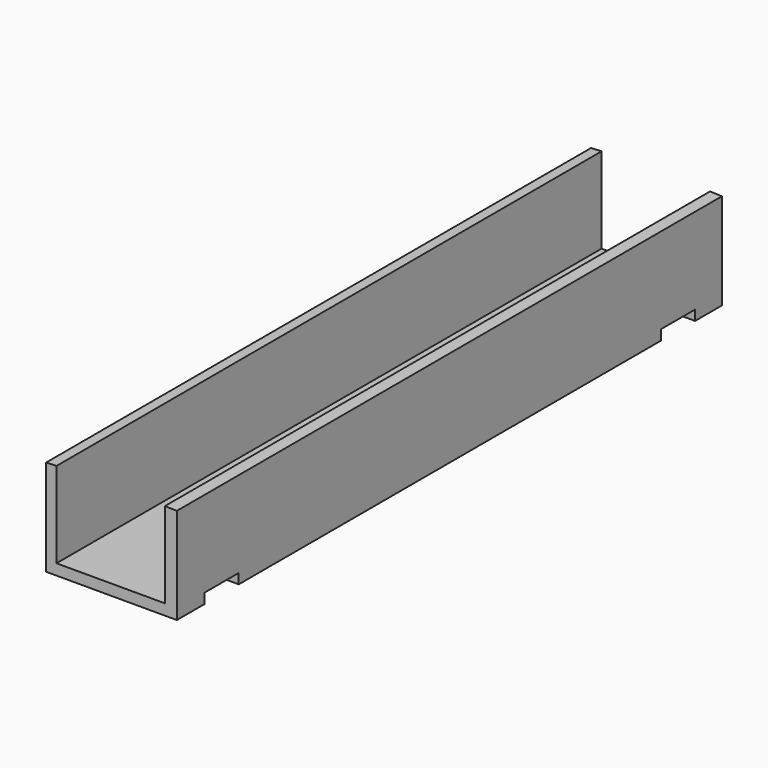
from build123d import *

# Parameters (mm, degrees)
F1_DEPTH = 101.6
F2_W     = 6.3754
F2_H     = 1.5
F3_DEPTH = 19.5


with BuildPart() as f1:
    # F0 (on Front) → F1 (new body)
    with BuildSketch(Plane.XZ):
        Polygon((0, 14.34), (0, 0), (19.5, 0), (19.5, 14.34), (17.728965, 14.396643), (17.728965, 1.62), (1.548965, 1.62), (1.548965, 14.396643), align=None)
    extrude(amount=F1_DEPTH)

    # F2 (on face) → F3 (cut, through all)
    with BuildSketch(Plane(origin=(0, 0, 0), x_dir=(0, -1, 0), z_dir=(-1, 0, 0))):
        with Locations((8.1877, 0.75)):
            Rectangle(F2_W, F2_H)
        with Locations((93.253481, 0.75)):
            Rectangle(F2_W, F2_H)
    extrude(amount=-F3_DEPTH, mode=Mode.SUBTRACT)


solid = f1.part
